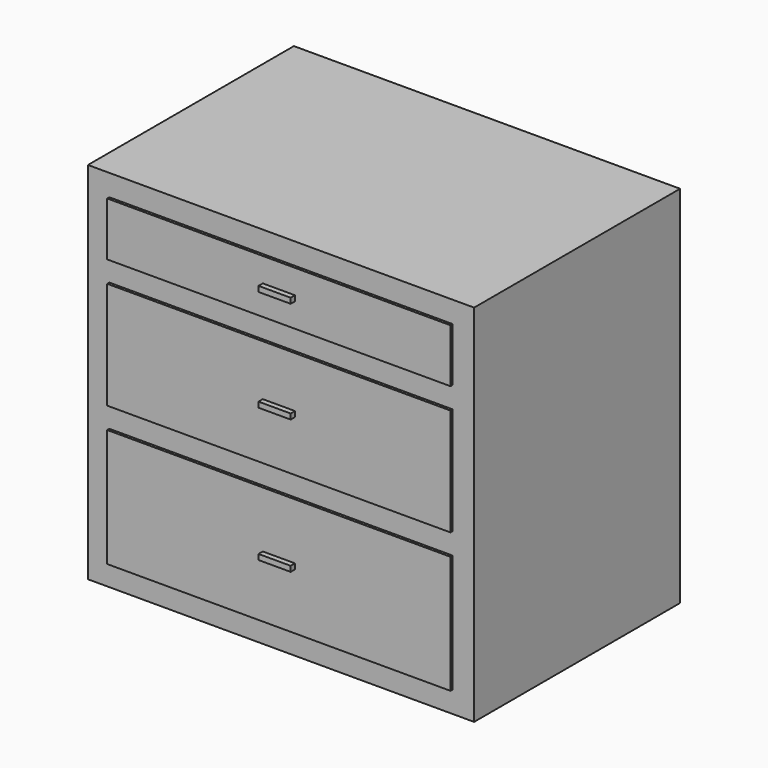
from build123d import *

# Parameters (mm, degrees)
F0_W     = 914.4
F0_H     = 863.6
F1_DEPTH = 609.6
F2_W     = 812.8
F2_H     = 127
F2_H_2   = 254
F2_H_3   = 279.4
F3_DEPTH = 6.35
F4_W     = 76.2
F4_H     = 12.7
F5_DEPTH = 12.7


with BuildPart() as f1:
    # F0 (on Front) → F1 (new body)
    with BuildSketch(Plane.XZ):
        with Locations((-15.939765, 178.42269)):
            Rectangle(F0_W, F0_H)
    extrude(amount=F1_DEPTH)

    # F2 (on face) → F3 (join)
    with BuildSketch(Plane.XZ.offset(609.6)):
        with Locations((-15.939765, 495.92269)):
            Rectangle(F2_W, F2_H)
        with Locations((-15.939765, 254.62269)):
            Rectangle(F2_W, F2_H_2)
        with Locations((-15.939765, -62.87731)):
            Rectangle(F2_W, F2_H_3)
    extrude(amount=F3_DEPTH)

    # F4 (on face) → F5 (join)
    with BuildSketch(Plane.XZ.offset(615.95)):
        with Locations((-15.939765, 495.92269)):
            Rectangle(F4_W, F4_H)
        with Locations((-15.939765, 254.62269)):
            Rectangle(F4_W, F4_H)
        with Locations((-15.939765, -62.87731)):
            Rectangle(F4_W, F4_H)
    extrude(amount=F5_DEPTH)


solid = f1.part
